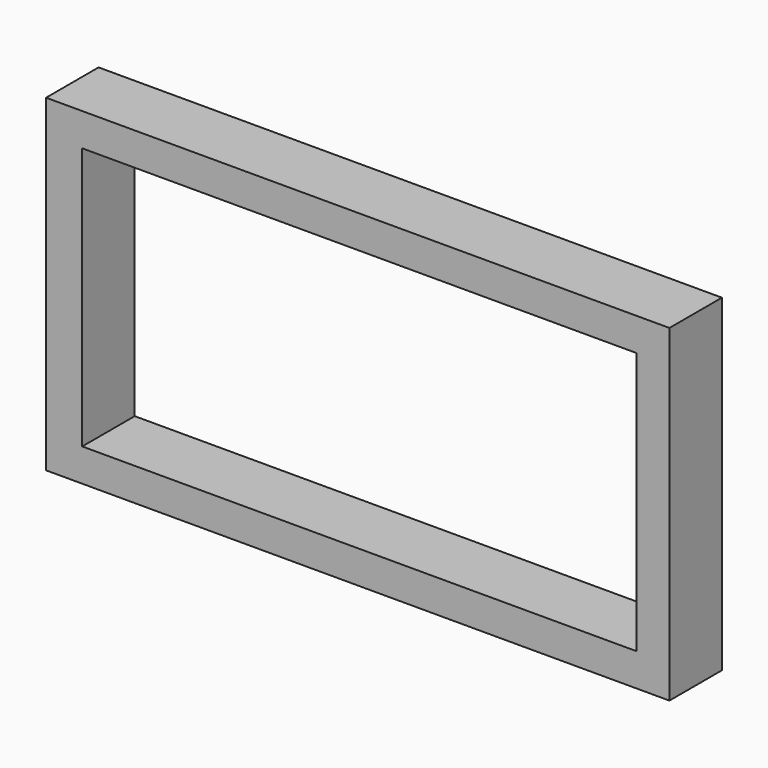
from build123d import *

# Parameters (mm, degrees)
SKETCH005_W      = 16.898421
SKETCH005_H      = 8
EXTRUDE004_DEPTH = 2.5
SKETCH_W         = 19
SKETCH_H         = 2
EXTRUDE_DEPTH    = 10


with BuildPart() as extrude004:
    # Sketch005 (on Face2 of Extrude) → Extrude004 (new body, symmetric)
    with BuildSketch(Plane.XZ):
        with Locations((0.05079, 5)):
            Rectangle(SKETCH005_W, SKETCH005_H)
    extrude(amount=EXTRUDE004_DEPTH, both=True)


with BuildPart() as cut001:
    # Sketch → Extrude (new body)
    with BuildSketch(Plane.XY):
        with Locations((0, 1)):
            Rectangle(SKETCH_W, SKETCH_H)
    extrude(amount=EXTRUDE_DEPTH)

    # Cut001: cut Extrude004
    add(extrude004.part, mode=Mode.SUBTRACT)


solid = cut001.part
